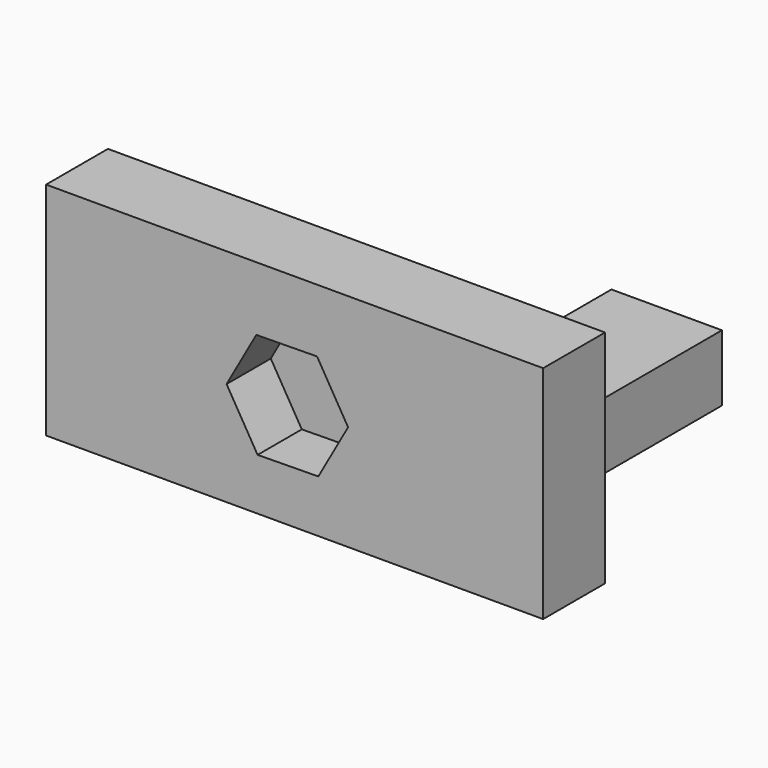
from build123d import *

# Parameters (mm, degrees)
F0_W     = 45
F0_H     = 20
F1_DEPTH = 7
F3_DEPTH = 5
F4_W     = 10
F4_H     = 6
F5_DEPTH = 25


with BuildPart() as f1:
    # F0 (on Front) → F1 (new body)
    with BuildSketch(Plane.XZ):
        with Locations((0.659725, 0.518122)):
            Rectangle(F0_W, F0_H)
    extrude(amount=F1_DEPTH)

    # F2 (on face) → F3 (cut)
    with BuildSketch(Plane.XZ.offset(7)):
        Polygon((-2.808699, 4.728764), (-5.499579, -0.068023), (-2.69088, -4.796787), (2.808699, -4.728764), (5.499579, 0.068023), (2.69088, 4.796787), align=None)
    extrude(amount=-F3_DEPTH, mode=Mode.SUBTRACT)

    # F4 (on face) → F5 (join)
    with BuildSketch(Plane.XZ.offset(7)):
        with Locations((14.343088, -0.862489)):
            Rectangle(F4_W, F4_H)
    extrude(amount=-F5_DEPTH)


solid = f1.part
